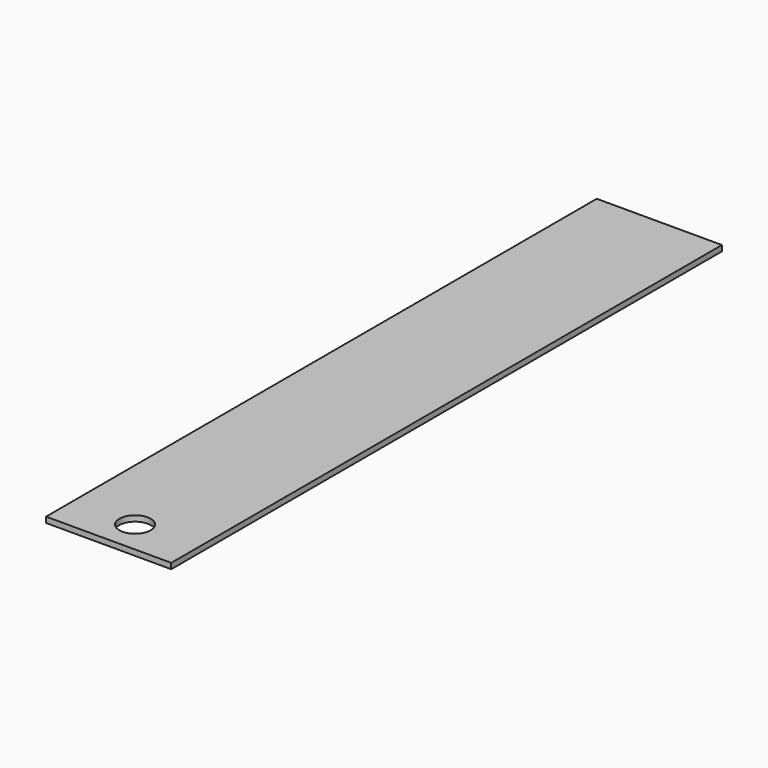
from build123d import *

# Parameters (mm, degrees)
F0_W     = 50.8
F0_H     = 2.286
F1_DEPTH = 139.7
F3_D     = 12.7


with BuildPart() as f1:
    # F0 (on Front) → F1 (new body, symmetric)
    with BuildSketch(Plane.XZ):
        Rectangle(F0_W, F0_H)
    extrude(amount=F1_DEPTH, both=True)

    # F3 (through all)
    with Locations(Plane.XY.offset(1.143)):
        with Locations((0, -126.320794)):
            Hole(F3_D / 2)


solid = f1.part
